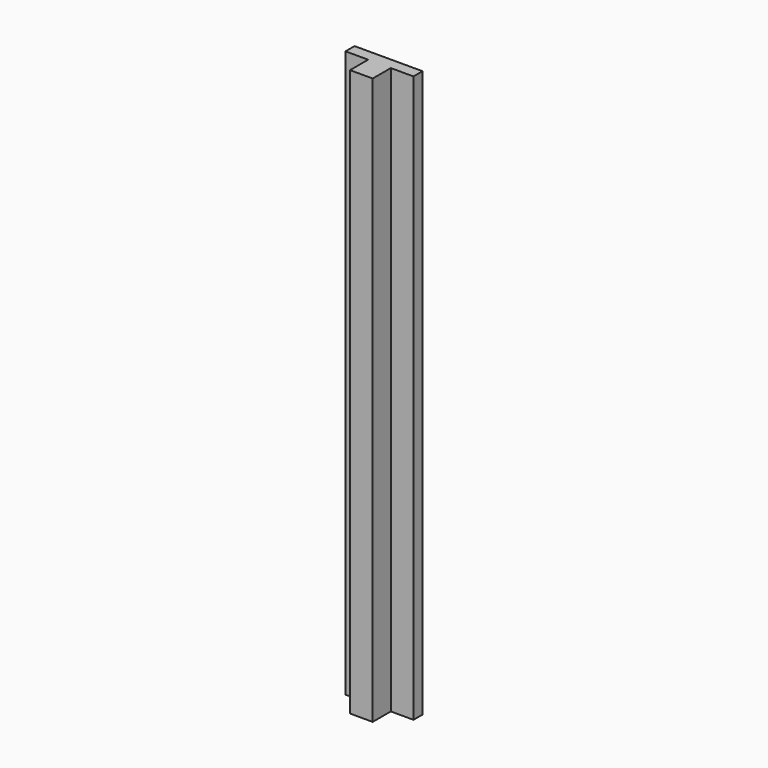
from build123d import *

# Parameters (mm, degrees)
F0_W     = 2
F0_H     = 2
F0_W_2   = 4
F1_DEPTH = 50


with BuildPart() as f1:
    # F0 (on Top) → F1 (new body, symmetric)
    with BuildSketch(Plane.XY):
        with Locations((-1, 5)):
            Rectangle(F0_W, F0_H)
        with Locations((1, 5)):
            Rectangle(F0_W, F0_H)
        with Locations((4, 5)):
            Rectangle(F0_W_2, F0_H)
        Polygon((-2, 4), (-2, 0), (2, 0), (2, 4), (0, 4), align=None)
        with Locations((-4, 5)):
            Rectangle(F0_W_2, F0_H)
    extrude(amount=F1_DEPTH, both=True)


solid = f1.part
